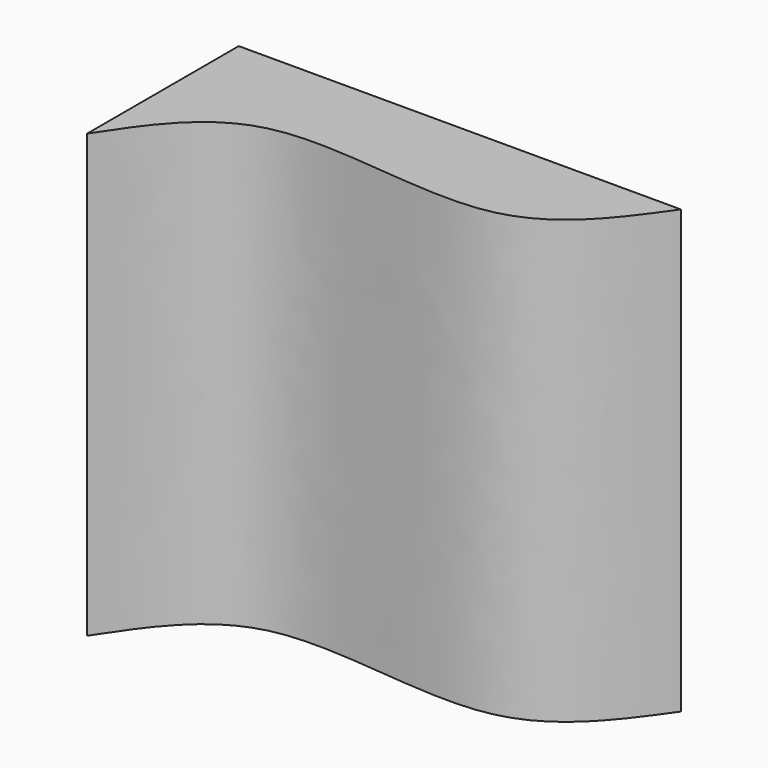
from build123d import *

# Parameters (mm, degrees)
F1_DEPTH = 88.9


with BuildPart() as f1:
    # F0 (on Top) → F1 (new body)
    with BuildSketch(Plane.XY):
        with BuildLine():
            Line((-44.45, 19.05), (-44.45, -19.05))
            add(Edge.make_bspline(
                [(-44.45, -19.05), (-38.9994649608, -10.7707287442), (-26.6028487957, 8.0595231754), (25.4402280097, -8.0068291468), (38.611029743, 10.739325852), (44.45, 19.05)],
                knots=[0, 0, 0, 0, 0.3040171506, 0.6914521045, 1, 1, 1, 1], degree=3))
            Line((44.45, 19.05), (-44.45, 19.05))
        make_face()
    extrude(amount=F1_DEPTH)


solid = f1.part
